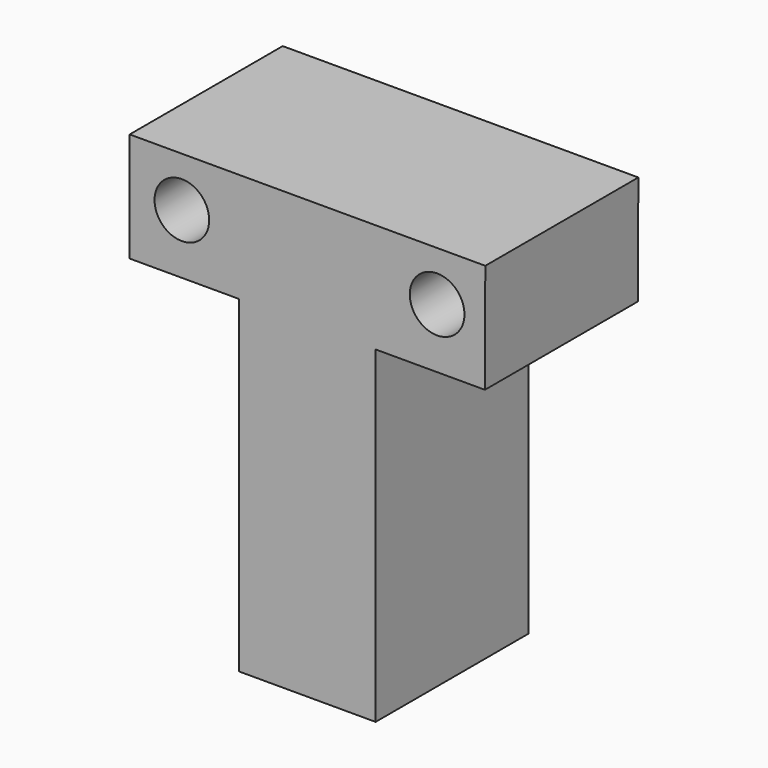
from build123d import *

# Parameters (mm, degrees)
F0_R     = 12.7
F0_W     = 63.5
F0_H     = 152.4
F1_DEPTH = 88.9


with BuildPart() as f1:
    # F0 (on Front) → F1 (new body)
    with BuildSketch(Plane.XZ):
        Polygon((-82.55, 76.2), (-31.75, 76.2), (31.75, 76.2), (82.55, 76.2), (82.723685, 126.999703), (-82.55, 126.999703), align=None)
        with Locations((-58.302917, 103.919536)):
            Circle(F0_R, mode=Mode.SUBTRACT)
        with Locations((60.332876, 103.919536)):
            Circle(F0_R, mode=Mode.SUBTRACT)
        Rectangle(F0_W, F0_H)
        Polygon((-82.55, 76.2), (-31.75, 76.2), (31.75, 76.2), (82.55, 76.2), (82.723685, 126.999703), (-82.55, 126.999703), align=None)
        with Locations((-58.302917, 103.919536)):
            Circle(F0_R, mode=Mode.SUBTRACT)
        with Locations((60.332876, 103.919536)):
            Circle(F0_R, mode=Mode.SUBTRACT)
    extrude(amount=F1_DEPTH)


solid = f1.part
